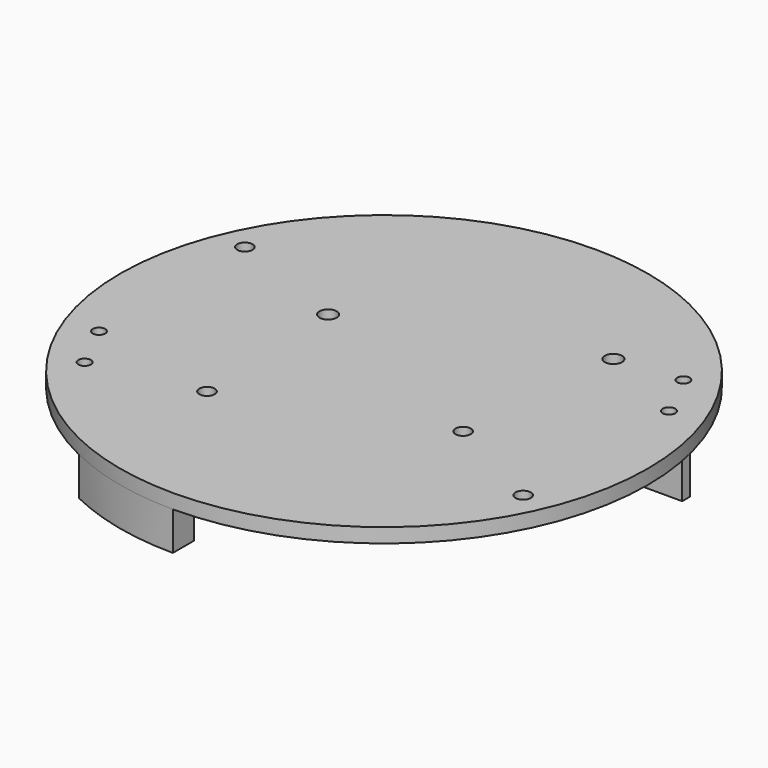
from build123d import *

# Parameters (mm, degrees)
SKETCH_R        = 55
PAD_DEPTH       = 3
SKETCH003_R     = 1.3
SKETCH003_R_2   = 1.8
SKETCH003_R_3   = 1.6
POCKET_DEPTH    = 5
PAD001_DEPTH    = 11
PAD002_DEPTH    = 11
SKETCH004_R     = 1.6
POCKET001_DEPTH = 5


with BuildPart() as part:
    # Sketch → Pad (new body)
    with BuildSketch(Plane.XY):
        Circle(SKETCH_R)
    extrude(amount=PAD_DEPTH)

    # Sketch003 → Pocket (cut)
    with BuildSketch(Plane.XY.offset(3)):
        with Locations((-45, -18)):
            Circle(SKETCH003_R)
        with Locations((45, 18)):
            Circle(SKETCH003_R)
        with Locations((-40, -28)):
            Circle(SKETCH003_R)
        with Locations((40, 28)):
            Circle(SKETCH003_R)
        with Locations((-19.567712, 9.90478)):
            Circle(SKETCH003_R_2)
        with Locations((26.477227, 26.663767)):
            Circle(SKETCH003_R_2)
        with Locations((-18.019993, -23.585586)):
            Circle(SKETCH003_R_3)
        with Locations((23.326482, -8.536699)):
            Circle(SKETCH003_R_3)
    extrude(amount=-POCKET_DEPTH, mode=Mode.SUBTRACT)

    # Sketch001 (on Face3 of Pad) → Pad001 (join)
    with BuildSketch(Plane.XY.offset(3)):
        Polygon((33.500008, 0), (33.500008, 13), (53.345406, 13), (53.345406, 11), (35.5, 11), (35.5, -0.005684), (35.5, -12), (33.500008, -12), align=None)
        Polygon((-33.5, 0), (-33.5, -13), (-53.293575, -13), (-53.293575, -11), (-35.5, -11), (-35.5, 0.001212), (-35.5, 12), (-33.5, 12), align=None)
    extrude(amount=-PAD001_DEPTH)

    # Sketch002 → Pad002 (join)
    with BuildSketch(Plane.XY.offset(3)):
        with BuildLine():
            ThreePointArc((-23.973944, -49.5), (-12.298374, -53.607369), (0, -55))
            Line((0, -49.5), (0, -55))
            Line((-23.973944, -49.5), (0, -49.5))
        make_face()
        with BuildLine():
            ThreePointArc((23.973944, 49.5), (12.298374, 53.607369), (0, 55))
            Line((0, 49.5), (0, 55))
            Line((23.973944, 49.5), (0, 49.5))
        make_face()
    extrude(amount=-PAD002_DEPTH)

    # Sketch004 (on Face4 of Pad002) → Pocket001 (cut)
    with BuildSketch(Plane.XY.offset(3)):
        with Locations((-45, 20)):
            Circle(SKETCH004_R)
        with Locations((45, -20)):
            Circle(SKETCH004_R)
    extrude(amount=-POCKET001_DEPTH, mode=Mode.SUBTRACT)


solid = part.part
